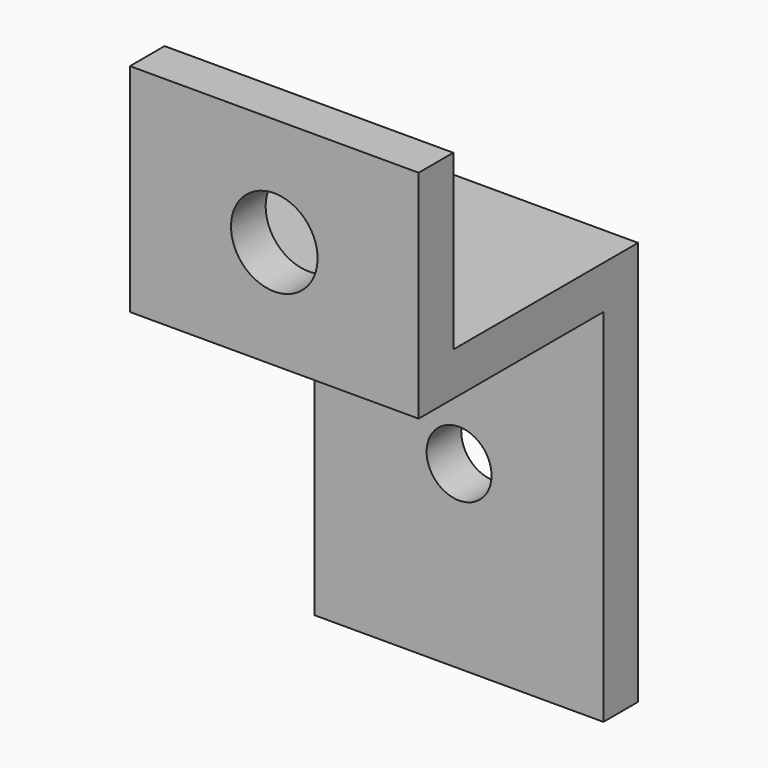
from build123d import *

# Parameters (mm, degrees)
F1_DEPTH = 20
F4_D     = 6
F5_D     = 4.5


with BuildPart() as f1:
    # F0 (on Right) → F1 (new body)
    with BuildSketch(Plane.YZ):
        Polygon((0, 15), (0, 0), (16, 0), (16, -25), (19, -25), (19, 3), (3, 3), (3, 15), align=None)
    extrude(amount=F1_DEPTH)

    # F4 (through all)
    with Locations(Plane.XZ):
        with Locations((10, 7.5)):
            Hole(F4_D / 2)

    # F5 (through all)
    with Locations(Plane.XZ.offset(-16)):
        with Locations((10, -12.5)):
            Hole(F5_D / 2)


solid = f1.part
